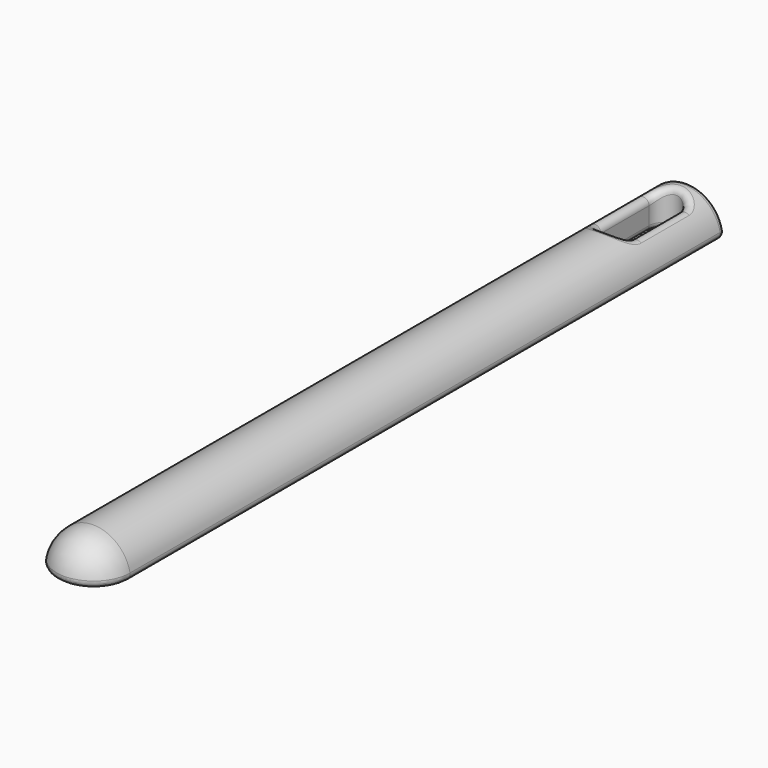
from build123d import *

# Parameters (mm, degrees)
PAD_DEPTH    = 130
FILLET_R     = 6.15
POCKET_DEPTH = 6.25
FILLET001_R  = 1
FILLET002_R  = 1
FILLET003_R  = 1
FILLET004_R  = 1


with BuildPart() as part:
    # Sketch → Pad (new body)
    with BuildSketch(Plane.XZ):
        with BuildLine():
            ThreePointArc((6.25, 0), (0, 6.25), (-6.25, 0))
            Line((-6.25, 0), (6.25, 0))
        make_face()
    extrude(amount=PAD_DEPTH)

    # Fillet
    fillet_edges = [part.edges().sort_by_distance(p)[0] for p in [
        (0, -130, 6.25),
    ]]
    fillet(fillet_edges, radius=FILLET_R)

    # Sketch001 (on Face2 of Fillet) → Pocket (cut)
    with BuildSketch(Plane(origin=(0, 0, 0), x_dir=(1, 0, 0), z_dir=(0, 0, -1))):
        with BuildLine():
            ThreePointArc((2.5, 15), (0, 17.5), (-2.5, 15))
            Line((-2.5, 15), (-2.5, 5))
            ThreePointArc((-2.5, 5), (0, 2.5), (2.5, 5))
            Line((2.5, 5), (2.5, 15))
        make_face()
    extrude(amount=-POCKET_DEPTH, mode=Mode.SUBTRACT)

    # Fillet001
    fillet001_edges = [part.edges().sort_by_distance(p)[0] for p in [
        (4.448707, -128.198707, 0),
    ]]
    fillet(fillet001_edges, radius=FILLET001_R)

    # Fillet002
    fillet002_edges = [part.edges().sort_by_distance(p)[0] for p in [
        (0, 0, 6.25),
    ]]
    fillet(fillet002_edges, radius=FILLET002_R)

    # Fillet003
    fillet003_edges = [part.edges().sort_by_distance(p)[0] for p in [
        (0, -17.5, 6.25),
    ]]
    fillet(fillet003_edges, radius=FILLET003_R)

    # Fillet004
    fillet004_edges = [part.edges().sort_by_distance(p)[0] for p in [
        (0, -17.5, 0),
    ]]
    fillet(fillet004_edges, radius=FILLET004_R)


solid = part.part
